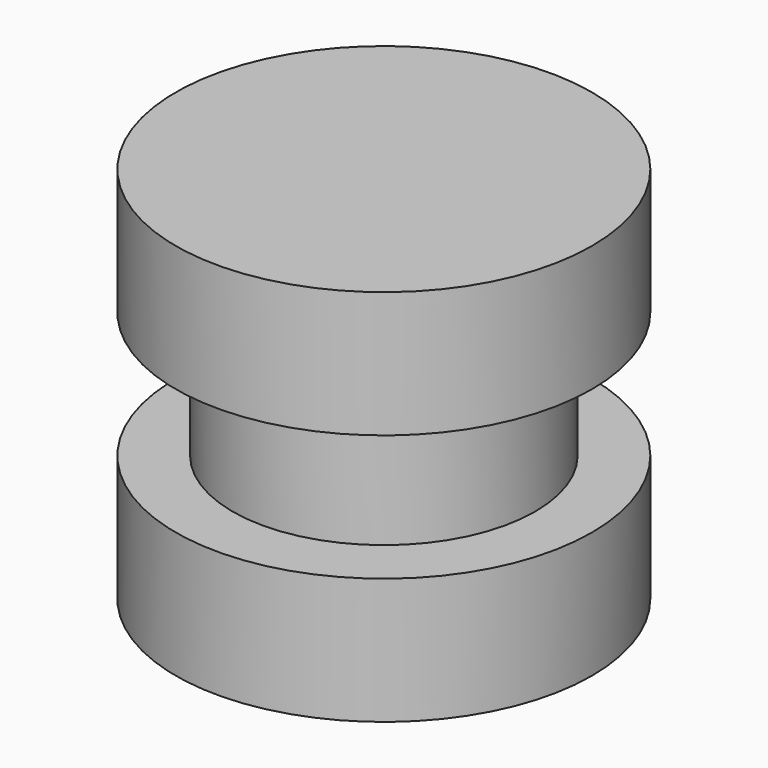
from build123d import *

# Parameters (mm, degrees)
F0_R     = 8.25
F1_DEPTH = 5
F2_R     = 6
F3_DEPTH = 5
F4_R     = 8.25
F5_DEPTH = 5


with BuildPart() as f1:
    # F0 (on Top) → F1 (new body)
    with BuildSketch(Plane.XY):
        Circle(F0_R)
    extrude(amount=-F1_DEPTH)

    # F2 (on Top) → F3 (join)
    with BuildSketch(Plane.XY):
        Circle(F2_R)
    extrude(amount=F3_DEPTH)

    # F4 (on face) → F5 (join)
    with BuildSketch(Plane.XY.offset(5)):
        Circle(F4_R)
    extrude(amount=F5_DEPTH)


solid = f1.part
